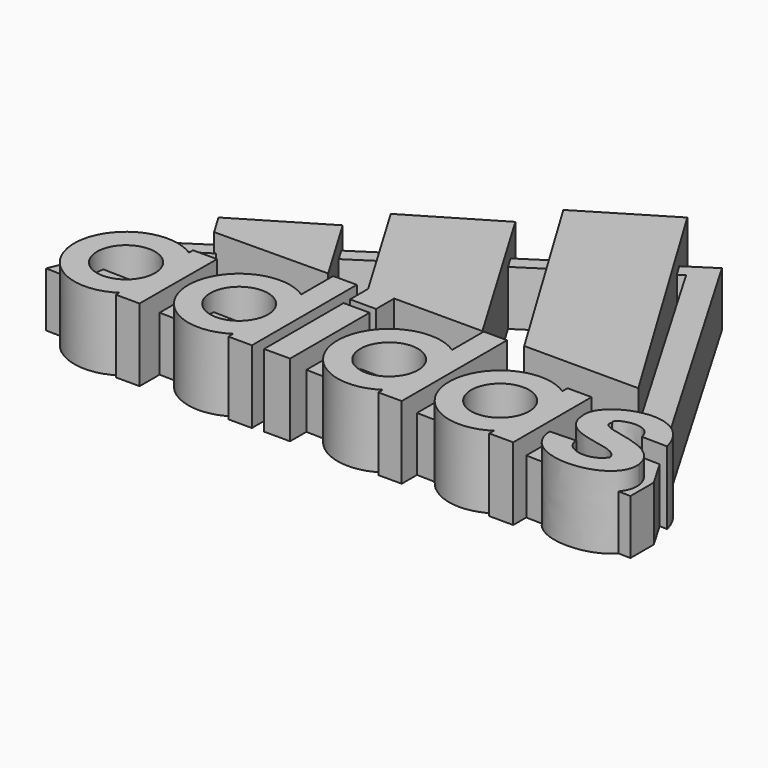
from build123d import *

# Parameters (mm, degrees)
F0_W     = 9.0830900218
F0_H     = 7.9034003945
F2_DEPTH = 25.4
F0_H_2   = 34.6730947495
F3_DEPTH = 19.05


with BuildPart() as f2:
    # F0 (on Top) → F2 (new body)
    with BuildSketch(Plane.XY):
        Polygon((-43.9661006433, 28.4338975529), (-73.4136849642, 10.9263667837), (-50.5765431072, -27.4855982928), (-41.4934530854, -27.4855982928), (-10.7201717601, -27.4855982928), align=None)
        with Locations((-46.0349980963, -31.43729849)):
            Rectangle(F0_W, F0_H)
    extrude(amount=F2_DEPTH)



with BuildPart() as f2b:
    # F0 (on Top) → F2, piece 2 (new body)
    with BuildSketch(Plane.XY):
        Polygon((-8.9851643821, 59.6952983295), (-38.1560213864, 42.0944355428), (3.6729876883, -27.2310320288), (43.4836767207, -27.264135395), align=None)
    extrude(amount=F2_DEPTH)


with BuildPart() as f2c:
    # F0 (on Top) → F2, piece 3 (new body)
    with BuildSketch(Plane.XY):
        Polygon((-79.4182941318, -2.5321505964), (-108.7307557464, -20.056758076), (-104.2544461775, -27.5440386079), (-64.7558271885, -27.1943509579), align=None)
    extrude(amount=F2_DEPTH)


with BuildPart() as f2d:
    # F0 (on Top) → F2, piece 4 (new body)
    with BuildSketch(Plane.XY):
        with BuildLine():
            ThreePointArc((-102.0557135344, -58.9698037815), (-121.9728595922, -56.4506873488), (-102.0557135344, -53.9315709162))
            Line((-102.0557135344, -53.9315709162), (-102.0557135344, -41.2890951247))
            ThreePointArc((-102.0557135344, -41.2890951247), (-129.907663606, -56.4506873488), (-102.0557135344, -71.6122795729))
            Line((-102.0557135344, -71.6122795729), (-102.0557135344, -58.9698037815))
        make_face()
        with BuildLine():
            ThreePointArc((-102.0557135344, -53.9315709162), (-101.8170665855, -55.1810944421), (-101.7370962193, -56.4506873488))
            ThreePointArc((-101.7370962193, -56.4506873488), (-101.8170665855, -57.7202802555), (-102.0557135344, -58.9698037815))
            Line((-102.0557135344, -58.9698037815), (-102.0557135344, -71.6122795729))
            ThreePointArc((-102.0557135344, -71.6122795729), (-95.9993400949, -65.0819219419), (-93.8022922055, -56.4506873488))
            ThreePointArc((-93.8022922055, -56.4506873488), (-95.9993400949, -47.8194527558), (-102.0557135344, -41.2890951247))
            Line((-102.0557135344, -41.2890951247), (-102.0557135344, -53.9315709162))
        make_face()
        with BuildLine():
            Line((-102.0557135344, -39.4907817245), (-102.0557135344, -41.2890951247))
            ThreePointArc((-102.0557135344, -41.2890951247), (-95.9993400949, -47.8194527558), (-93.8022922055, -56.4506873488))
            ThreePointArc((-93.8022922055, -56.4506873488), (-95.9993400949, -65.0819219419), (-102.0557135344, -71.6122795729))
            Line((-102.0557135344, -71.6122795729), (-102.0557135344, -73.1066688895))
            Line((-102.0557135344, -73.1066688895), (-93.8233733177, -73.1066688895))
            Line((-93.8233733177, -73.1066688895), (-93.6868593139, -39.4907817245))
            Line((-93.6868593139, -39.4907817245), (-102.0557135344, -39.4907817245))
        make_face()
    extrude(amount=F2_DEPTH)


with BuildPart() as f2e:
    # F0 (on Top) → F2, piece 5 (new body)
    with BuildSketch(Plane.XY):
        with BuildLine():
            ThreePointArc((-54.7383313611, -56.298725307), (-56.866864383, -47.8633446713), (-62.7427995205, -41.4477632047))
            Line((-62.7427995205, -41.4477632047), (-62.7427995205, -53.8692585566))
            ThreePointArc((-62.7427995205, -53.8692585566), (-62.5200266832, -55.0749243736), (-62.44540045, -56.298725307))
            ThreePointArc((-62.44540045, -56.298725307), (-62.5200266832, -57.5225262404), (-62.7427995205, -58.7281920574))
            Line((-62.7427995205, -58.7281920574), (-62.7427995205, -71.1496874093))
            ThreePointArc((-62.7427995205, -71.1496874093), (-56.866864383, -64.7341059427), (-54.7383313611, -56.298725307))
        make_face()
        with BuildLine():
            Line((-62.7427995205, -53.8692585566), (-62.7427995205, -41.4477632047))
            ThreePointArc((-62.7427995205, -41.4477632047), (-90.2962947652, -56.298725307), (-62.7427995205, -71.1496874093))
            Line((-62.7427995205, -71.1496874093), (-62.7427995205, -58.7281920574))
            ThreePointArc((-62.7427995205, -58.7281920574), (-82.5892256763, -56.298725307), (-62.7427995205, -53.8692585566))
        make_face()
        with BuildLine():
            Line((-54.4922873378, -27.5306068361), (-62.7427995205, -27.5306068361))
            Line((-62.7427995205, -27.5306068361), (-62.7427995205, -41.4477632047))
            ThreePointArc((-62.7427995205, -41.4477632047), (-56.866864383, -47.8633446713), (-54.7383313611, -56.298725307))
            ThreePointArc((-54.7383313611, -56.298725307), (-56.866864383, -64.7341059427), (-62.7427995205, -71.1496874093))
            Line((-62.7427995205, -71.1496874093), (-62.7427995205, -73.2634067535))
            Line((-62.7427995205, -73.2634067535), (-54.4922873378, -73.2634067535))
            Line((-54.4922873378, -73.2634067535), (-54.4922873378, -27.5306068361))
        make_face()
    extrude(amount=F2_DEPTH)


with BuildPart() as f2f:
    # F0 (on Top) → F2, piece 6 (new body)
    with BuildSketch(Plane.XY):
        with Locations((-46.0349980963, -55.5443391204)):
            Rectangle(F0_W, F0_H_2)
    extrude(amount=F2_DEPTH)


with BuildPart() as f2g:
    # F0 (on Top) → F2, piece 7 (new body)
    with BuildSketch(Plane.XY):
        with BuildLine():
            ThreePointArc((-10.2322949097, -58.3914205256), (-30.1824815865, -56.3954040408), (-10.2322949097, -54.3993875561))
            Line((-10.2322949097, -54.3993875561), (-10.2322949097, -41.3128942875))
            ThreePointArc((-10.2322949097, -41.3128942875), (-38.1353636896, -56.3954040408), (-10.2322949097, -71.4779137941))
            Line((-10.2322949097, -71.4779137941), (-10.2322949097, -58.3914205256))
        make_face()
        with BuildLine():
            ThreePointArc((-10.2322949097, -54.3993875561), (-10.0826431165, -55.3924132023), (-10.0325934296, -56.3954040408))
            ThreePointArc((-10.0325934296, -56.3954040408), (-10.0826431165, -57.3983948793), (-10.2322949097, -58.3914205256))
            Line((-10.2322949097, -58.3914205256), (-10.2322949097, -71.4779137941))
            ThreePointArc((-10.2322949097, -71.4779137941), (-4.3869802532, -65.2196091853), (-2.0888769068, -56.9701970233))
            Line((-2.0888769068, -56.9701970233), (-2.0888769068, -55.8206110584))
            ThreePointArc((-2.0888769068, -55.8206110584), (-4.3869802532, -47.5711988963), (-10.2322949097, -41.3128942875))
            Line((-10.2322949097, -41.3128942875), (-10.2322949097, -54.3993875561))
        make_face()
        with BuildLine():
            Line((-10.2322949097, -27.4855982928), (-10.2322949097, -41.3128942875))
            ThreePointArc((-10.2322949097, -41.3128942875), (-4.3869802532, -47.5711988963), (-2.0888769068, -55.8206110584))
            Line((-2.0888769068, -55.8206110584), (-2.0888769068, -27.4855982928))
            Line((-2.0888769068, -27.4855982928), (-10.2322949097, -27.4855982928))
        make_face()
        with BuildLine():
            ThreePointArc((-2.0888769068, -56.9701970233), (-4.3869802532, -65.2196091853), (-10.2322949097, -71.4779137941))
            Line((-10.2322949097, -71.4779137941), (-10.2322949097, -73.4481215477))
            Line((-10.2322949097, -73.4481215477), (-2.0888769068, -73.4481215477))
            Line((-2.0888769068, -73.4481215477), (-2.0888769068, -56.9701970233))
        make_face()
    extrude(amount=F2_DEPTH)


with BuildPart() as f2h:
    # F0 (on Top) → F2, piece 8 (new body)
    with BuildSketch(Plane.XY):
        with BuildLine():
            ThreePointArc((28.4311771393, -59.137560381), (8.5865272187, -56.4961470664), (28.4311771393, -53.8547337517))
            Line((28.4311771393, -53.8547337517), (28.4311771393, -41.5511734614))
            ThreePointArc((28.4311771393, -41.5511734614), (0.842359102, -56.4961470664), (28.4311771393, -71.4411206713))
            Line((28.4311771393, -71.4411206713), (28.4311771393, -59.137560381))
        make_face()
        with BuildLine():
            ThreePointArc((28.4311771393, -53.8547337517), (28.6944793502, -55.163792411), (28.7827612855, -56.4961470664))
            ThreePointArc((28.7827612855, -56.4961470664), (28.6944793502, -57.8285017217), (28.4311771393, -59.137560381))
            Line((28.4311771393, -59.137560381), (28.4311771393, -71.4411206713))
            ThreePointArc((28.4311771393, -71.4411206713), (34.3729768335, -64.9945798742), (36.5269294021, -56.4961470664))
            ThreePointArc((36.5269294021, -56.4961470664), (34.3729768335, -47.9977142586), (28.4311771393, -41.5511734614))
            Line((28.4311771393, -41.5511734614), (28.4311771393, -53.8547337517))
        make_face()
        with BuildLine():
            Line((28.4311771393, -39.3166132271), (28.4311771393, -41.5511734614))
            ThreePointArc((28.4311771393, -41.5511734614), (34.3729768335, -47.9977142586), (36.5269294021, -56.4961470664))
            ThreePointArc((36.5269294021, -56.4961470664), (34.3729768335, -64.9945798742), (28.4311771393, -71.4411206713))
            Line((28.4311771393, -71.4411206713), (28.4311771393, -73.4738558531))
            Line((28.4311771393, -73.4738558531), (36.832652986, -73.4738558531))
            Line((36.832652986, -73.4738558531), (36.832652986, -39.3166132271))
            Line((36.832652986, -39.3166132271), (28.4311771393, -39.3166132271))
        make_face()
    extrude(amount=F2_DEPTH)


with BuildPart() as f2i:
    # F0 (on Top) → F2, piece 9 (new body)
    with BuildSketch(Plane.XY):
        with BuildLine():
            Line((49.6892891824, -61.9745925069), (40.6139045954, -62.2757151723))
            add(Edge.make_bspline(
                [(40.6139045954, -62.2757151723), (41.1534644657, -78.8475082846), (73.1532126665, -76.4457881451), (71.6908053673, -62.1740961182)],
                knots=[0, 0, 0, 0, 31.0770669147, 31.0770669147, 31.0770669147, 31.0770669147], degree=3))
            add(Edge.make_bspline(
                [(71.6908053673, -62.1740961182), (69.6797296405, -49.168009311), (47.9837246239, -53.2272197306), (50.6022907794, -47.5224889815)],
                knots=[0, 0, 0, 0, 25.6786884248, 25.6786884248, 25.6786884248, 25.6786884248], degree=3))
            add(Edge.make_bspline(
                [(50.6022907794, -47.5224889815), (48.7428940833, -45.3800447285), (60.734026134, -41.1070175469), (62.1130354702, -49.0238890052)],
                knots=[0, 0, 0, 0, 11.6082490226, 11.6082490226, 11.6082490226, 11.6082490226], degree=3))
            Line((62.1130354702, -49.0238890052), (71.0845440626, -49.168009311))
            add(Edge.make_bspline(
                [(71.0845440626, -49.168009311), (65.7520741224, -29.1083753109), (40.0258675218, -39.3166132271), (41.7233631015, -49.168009311)],
                knots=[0, 0, 0, 0, 29.3611809611, 29.3611809611, 29.3611809611, 29.3611809611], degree=3))
            add(Edge.make_bspline(
                [(41.7233631015, -49.168009311), (42.1750545502, -62.2757151723), (61.9124509394, -57.0347122848), (62.9160478711, -63.9483705163)],
                knots=[0, 0, 0, 0, 25.8377430343, 25.8377430343, 25.8377430343, 25.8377430343], degree=3))
            add(Edge.make_bspline(
                [(62.9160478711, -63.9483705163), (59.5022290945, -69.4458112121), (49.3547581136, -67.5501301885), (49.6892891824, -61.9745925069)],
                knots=[0, 0, 0, 0, 13.3732174528, 13.3732174528, 13.3732174528, 13.3732174528], degree=3))
        make_face()
    extrude(amount=F2_DEPTH)


with BuildPart() as f2_1:
    add(f2.part)

    add(f2b.part)  # F3 merges F2b

    add(f2c.part)  # F3 merges F2c

    add(f2d.part)  # F3 merges F2d

    add(f2e.part)  # F3 merges F2e

    add(f2f.part)  # F3 merges F2f

    add(f2g.part)  # F3 merges F2g

    add(f2h.part)  # F3 merges F2h

    add(f2i.part)  # F3 merges F2i
    # F1 (on Top) → F3 (join)
    with BuildSketch(Plane.XY):
        Polygon((73.9386156201, -58.5749596357), (11.9770720489, 47.411886314), (4.3728189538, 42.4813871669), (63.3079875867, -58.3287650487), align=None)
        Polygon((9.4212666154, 51.7836585641), (-122.1601739526, -33.5320420563), (-119.4080900755, -37.7765499075), (4.3728189538, 42.4813871669), (11.9770720489, 47.411886314), align=None)
        Polygon((-124.9403444156, -53.9691241864), (-128.1970404088, -63.5012766385), (73.9386156201, -68.7619075179), (73.9386156201, -58.5749596357), (63.3079875867, -58.3287650487), align=None)
        Polygon((-119.4080900755, -37.7765499075), (-122.1601739526, -33.5320420563), (-134.2339068651, -63.3441656828), (-128.1970404088, -63.5012766385), (-124.9403444156, -53.9691241864), align=None)
    extrude(amount=F3_DEPTH)


solid = f2_1.part
